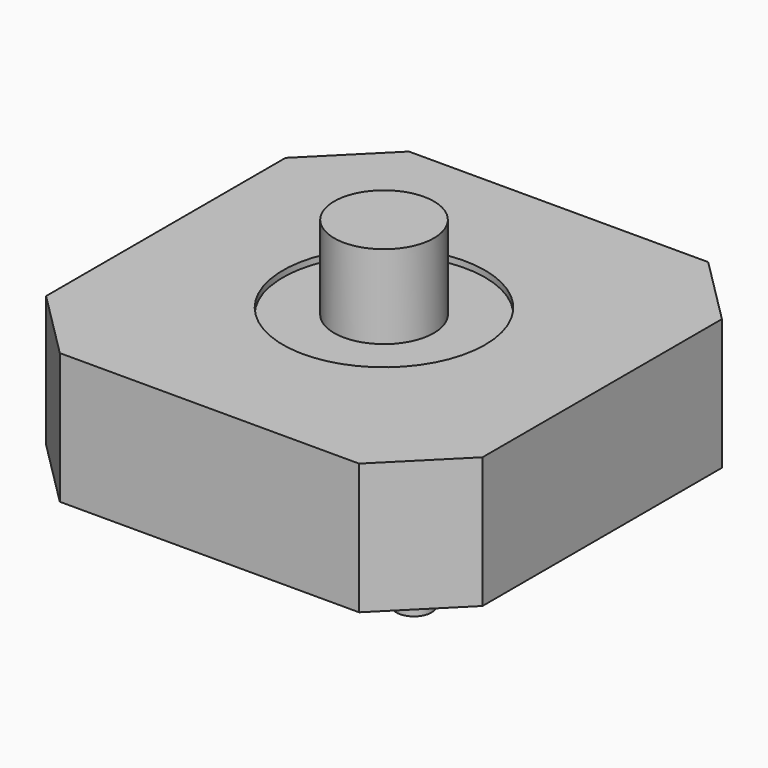
from build123d import *

# Parameters (mm, degrees)
CYLINDER003_R     = 0.7
CYLINDER003_DEPTH = 0.9
CYLINDER002_R     = 0.7
CYLINDER002_DEPTH = 0.9
CYLINDER001_R     = 2
CYLINDER001_DEPTH = 3.35
CYLINDER_R        = 4.05
CYLINDER_DEPTH    = 2
BOX_W             = 17.5
BOX_H             = 17.5
BOX_DEPTH         = 5.25
CHAMFER_SIZE      = 2.75


with BuildPart() as obj1:
    # Cylinder003 → Cylinder003 (new body)
    with BuildSketch(Plane(origin=(6, -6, -0.9), x_dir=(1, 0, 0), z_dir=(0, 0, 1))):
        Circle(CYLINDER003_R)
    extrude(amount=CYLINDER003_DEPTH)


with BuildPart() as obj2:
    # Cylinder002 → Cylinder002 (new body)
    with BuildSketch(Plane(origin=(-6, 6, -0.9), x_dir=(1, 0, 0), z_dir=(0, 0, 1))):
        Circle(CYLINDER002_R)
    extrude(amount=CYLINDER002_DEPTH)


with BuildPart() as obj3:
    # Cylinder001 → Cylinder001 (new body)
    with BuildSketch(Plane.XY.offset(5)):
        Circle(CYLINDER001_R)
    extrude(amount=CYLINDER001_DEPTH)


with BuildPart() as obj4:
    # Cylinder → Cylinder (new body)
    with BuildSketch(Plane.XY.offset(5)):
        Circle(CYLINDER_R)
    extrude(amount=CYLINDER_DEPTH)


with BuildPart() as obj5:
    # Box → Box (new body)
    with BuildSketch(Plane(origin=(-8.75, -8.75, 0), x_dir=(1, 0, 0), z_dir=(0, 0, 1))):
        with Locations((8.75, 8.75)):
            Rectangle(BOX_W, BOX_H)
    extrude(amount=BOX_DEPTH)

    # Chamfer
    chamfer_edges = [obj5.edges().sort_by_distance(p)[0] for p in [
        (-8.75, -8.75, 2.625),
        (-8.75, 8.75, 2.625),
        (8.75, -8.75, 2.625),
        (8.75, 8.75, 2.625),
    ]]
    chamfer(chamfer_edges, length=CHAMFER_SIZE)

    # Cut: cut obj4
    add(obj4.part, mode=Mode.SUBTRACT)

    # Fusion010: union obj1, obj2, obj3
    add(obj1.part)
    add(obj2.part)
    add(obj3.part)


solid = obj5.part
